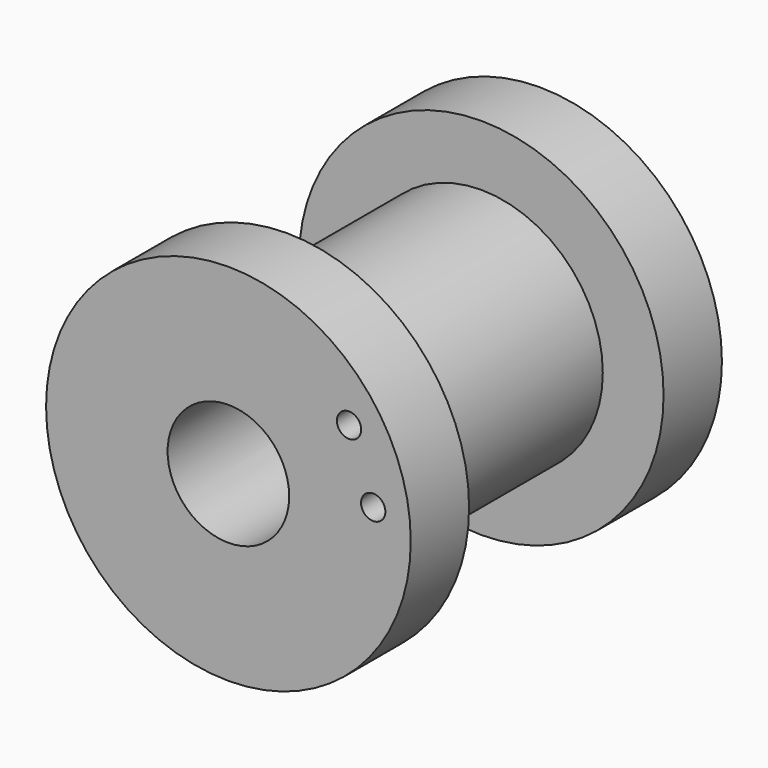
from build123d import *

# Parameters (mm, degrees)
F0_R     = 5
F0_R_2   = 2.5
F1_DEPTH = 13
F0_R_3   = 7.5
F2_DEPTH = 3
F4_DEPTH = 3
F3_R     = 7.5
F3_R_2   = 5
F3_R_3   = 0.5
F5_DEPTH = 3
F6_R     = 1.425
F7_DEPTH = 25


with BuildPart() as f1:
    # F0 (on Front) → F1 (new body)
    with BuildSketch(Plane.XZ):
        Circle(F0_R)
        Circle(F0_R_2, mode=Mode.SUBTRACT)
    extrude(amount=F1_DEPTH)

    # F0 (on Front) → F2 (join)
    with BuildSketch(Plane.XZ):
        Circle(F0_R_3)
        Circle(F0_R, mode=Mode.SUBTRACT)
    extrude(amount=-F2_DEPTH)

    # F4 (add): a face of the model
    f4_faces = [f1.faces().sort_by_distance(p)[0] for p in [
        (-4.8585786438, 0, 0),
    ]]
    extrude(f4_faces, amount=F4_DEPTH)

    # F3 (on face) → F5 (join)
    with BuildSketch(Plane.XZ.offset(13)):
        Circle(F3_R)
        Circle(F3_R_2, mode=Mode.SUBTRACT)
        with Locations((5.9560983991, 0.7244942103)):
            Circle(F3_R_3, mode=Mode.SUBTRACT)
        with Locations((4.9608234595, 3.3749415703)):
            Circle(F3_R_3, mode=Mode.SUBTRACT)
    extrude(amount=-F5_DEPTH)

    # F6 (on Right) → F7 (cut)
    with BuildSketch(Plane.YZ):
        with Locations((-5, 0)):
            Circle(F6_R)
    extrude(amount=-F7_DEPTH, mode=Mode.SUBTRACT)


solid = f1.part
